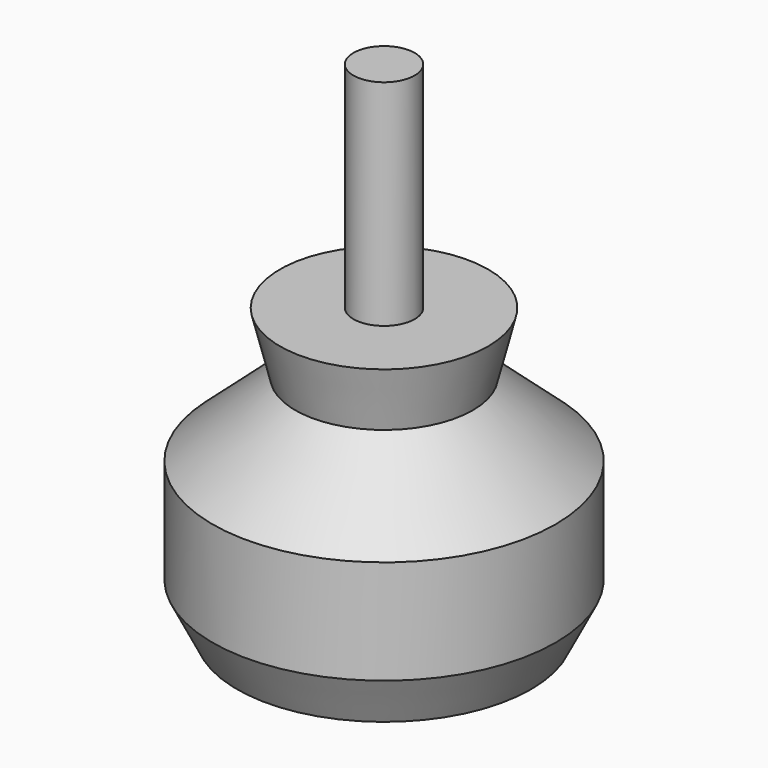
from build123d import *

# Parameters (mm, degrees)
F0_W   = 14
F0_H   = 8.5
F0_W_2 = 2.5
F0_H_2 = 17.5


with BuildPart() as f1:
    # F0 (on Front) → F1 (revolve)
    with BuildSketch(Plane.XZ):
        Polygon((0, 4), (0, 0), (12, 0), (14, 4), align=None)
    revolve(axis=Axis((0, 0, 2), (0, 0, -1)))


with BuildPart() as f2:
    # F0 (on Front) → F2 (revolve)
    with BuildSketch(Plane.XZ):
        with Locations((7, 8.25)):
            Rectangle(F0_W, F0_H)
        Polygon((0, 18.5), (0, 12.5), (14, 12.5), (7.25, 18.5), align=None)
        Polygon((0, 23.5), (0, 18.5), (7.25, 18.5), (8.5, 23.5), (2.5, 23.5), align=None)
        with Locations((1.25, 32.25)):
            Rectangle(F0_W_2, F0_H_2)
    revolve(axis=Axis((0, 0, 32.25), (0, 0, 1)))


solid = Compound([f1.part, f2.part])
